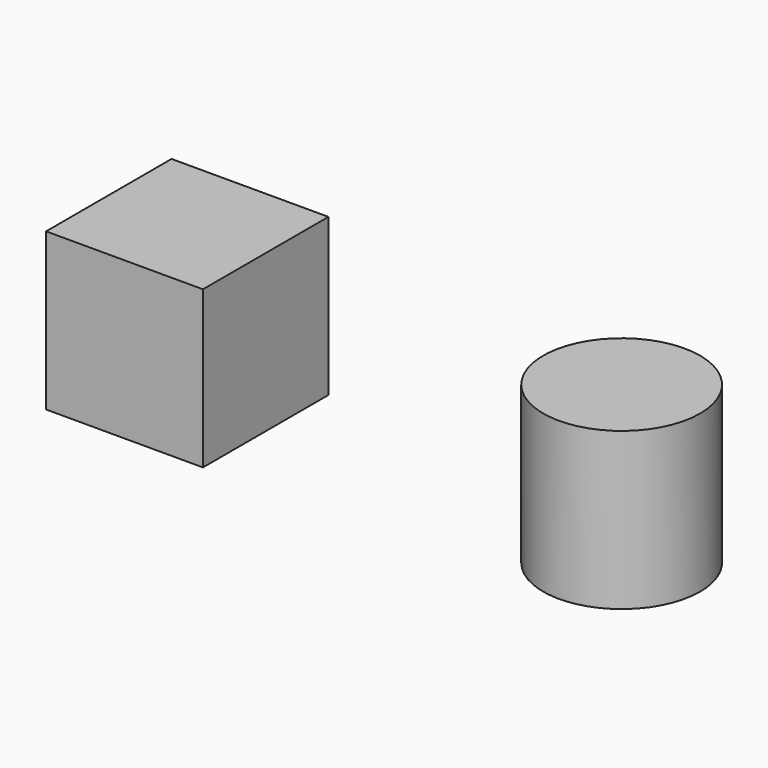
from build123d import *

# Parameters (mm, degrees)
F0_W     = 50
F0_H     = 50
F1_DEPTH = 50
F0_R     = 25
F2_DEPTH = 50


with BuildPart() as f1:
    # F0 (on Top) → F1 (new body)
    with BuildSketch(Plane.XY):
        with Locations((-109.452567, 44.589111)):
            Rectangle(F0_W, F0_H)
    extrude(amount=F1_DEPTH)

    # F0 (on Top) → F2 (join)
    with BuildSketch(Plane.XY):
        with Locations((-109.452567, 44.589111)):
            Rectangle(F0_W, F0_H)
        with Locations((29.027501, 44.589111)):
            Circle(F0_R)
    extrude(amount=F2_DEPTH)


solid = f1.part
